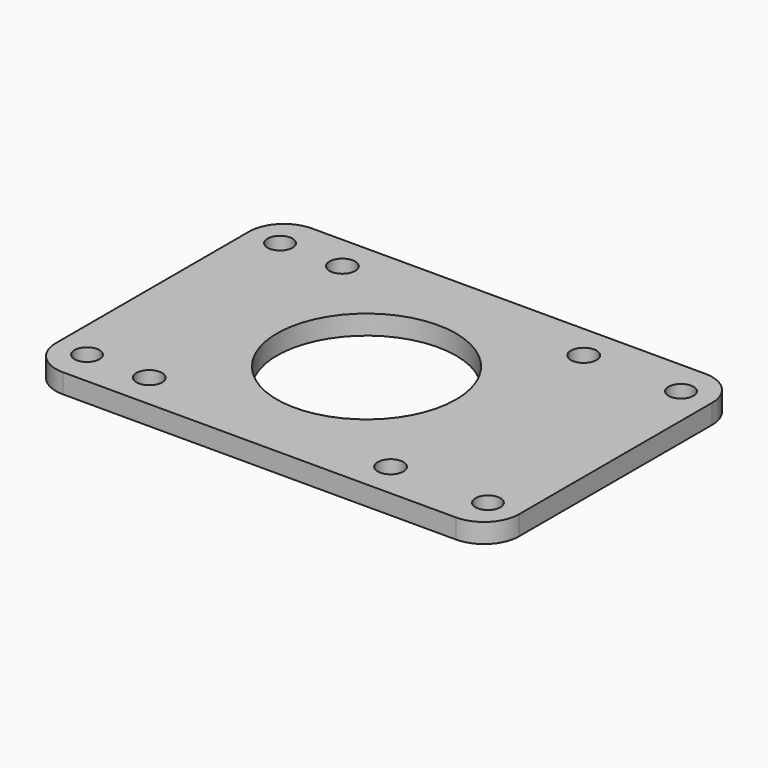
from build123d import *

# Parameters (mm, degrees)
SKETCH_R   = 1.65
SKETCH_R_2 = 11.5
SKETCH_R_3 = 1.6
PAD_DEPTH  = 2.5
FILLET_R   = 4.5


with BuildPart() as part:
    # Sketch → Pad (new body)
    with BuildSketch(Plane.XY):
        Polygon((20, 20), (-20, 20), (-27.5, 20), (-27.5, -20), (-20, -20), (20, -20), (32, -20), (32, 20), align=None)
        with Locations((-15.5, 15.5)):
            Circle(SKETCH_R, mode=Mode.SUBTRACT)
        with Locations((15.5, 15.5)):
            Circle(SKETCH_R, mode=Mode.SUBTRACT)
        with Locations((15.5, -15.5)):
            Circle(SKETCH_R, mode=Mode.SUBTRACT)
        with Locations((-15.5, -15.5)):
            Circle(SKETCH_R, mode=Mode.SUBTRACT)
        Circle(SKETCH_R_2, mode=Mode.SUBTRACT)
        with Locations((-23.5, 15.5)):
            Circle(SKETCH_R_3, mode=Mode.SUBTRACT)
        with Locations((-23.5, -15.5)):
            Circle(SKETCH_R_3, mode=Mode.SUBTRACT)
        with Locations((28, 15.5)):
            Circle(SKETCH_R_3, mode=Mode.SUBTRACT)
        with Locations((28, -15.5)):
            Circle(SKETCH_R_3, mode=Mode.SUBTRACT)
    extrude(amount=PAD_DEPTH)

    # Fillet
    fillet_edges = [part.edges().sort_by_distance(p)[0] for p in [
        (32, -20, 1.25),
        (32, 20, 1.25),
        (-27.5, 20, 1.25),
        (-27.5, -20, 1.25),
    ]]
    fillet(fillet_edges, radius=FILLET_R)


solid = part.part
